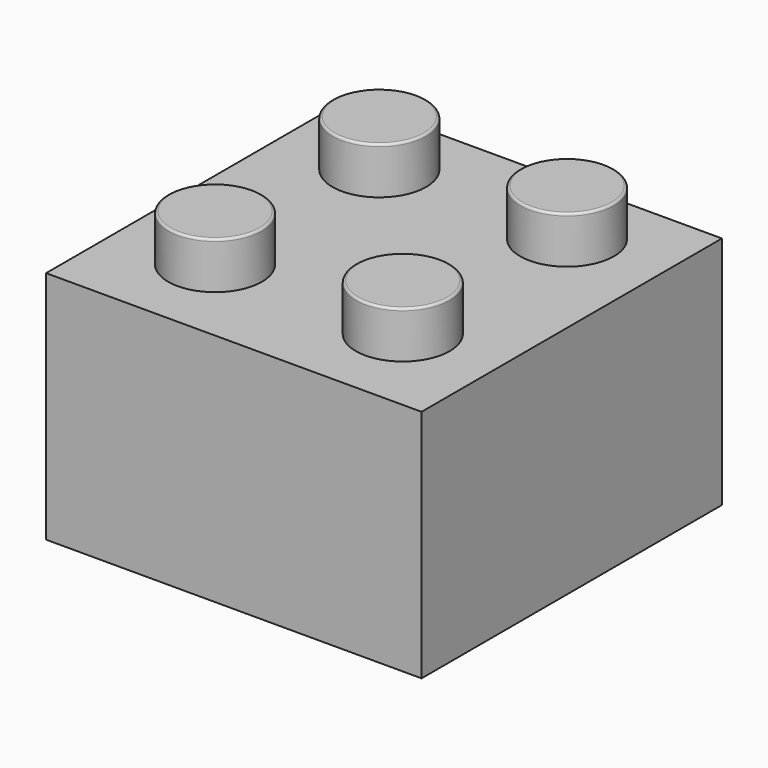
from build123d import *

# Parameters (mm, degrees)
F0_W      = 32
F0_H      = 32
F1_DEPTH  = 20
F2_R      = 4
F3_DEPTH  = 4
F4_R      = 4
F5_DEPTH  = 4
F7_R      = 4
F8_DEPTH  = 4
F10_R     = 4
F11_DEPTH = 4
F12_R     = 0.2
F13_R     = 0.2
F14_R     = 0.2
F15_R     = 0.2


with BuildPart() as f1:
    # F0 (on Top) → F1 (new body)
    with BuildSketch(Plane.XY):
        with Locations((20.307853, -9.500817)):
            Rectangle(F0_W, F0_H)
    extrude(amount=F1_DEPTH)

    # F2 (on face) → F3 (join)
    with BuildSketch(Plane.XY.offset(20)):
        with Locations((12.307853, 0)):
            Circle(F2_R)
    extrude(amount=F3_DEPTH)

    # F4 (on face) → F5 (join)
    with BuildSketch(Plane.XY.offset(20)):
        with Locations((28.307853, 0)):
            Circle(F4_R)
    extrude(amount=F5_DEPTH)

    # F7 (on face) → F8 (join)
    with BuildSketch(Plane.XY.offset(20)):
        with Locations((12.307853, -17.500817)):
            Circle(F7_R)
    extrude(amount=F8_DEPTH)

    # F10 (on face) → F11 (join)
    with BuildSketch(Plane.XY.offset(20)):
        with Locations((28.307853, -17.500817)):
            Circle(F10_R)
    extrude(amount=F11_DEPTH)

    # F12
    f12_edges = [f1.edges().sort_by_distance(p)[0] for p in [
        (8.307853, 0, 24),
    ]]
    fillet(f12_edges, radius=F12_R)

    # F13
    f13_edges = [f1.edges().sort_by_distance(p)[0] for p in [
        (8.307853, -17.500817, 24),
    ]]
    fillet(f13_edges, radius=F13_R)

    # F14
    f14_edges = [f1.edges().sort_by_distance(p)[0] for p in [
        (24.307853, -17.500817, 24),
    ]]
    fillet(f14_edges, radius=F14_R)

    # F15
    f15_edges = [f1.edges().sort_by_distance(p)[0] for p in [
        (24.307853, 0, 24),
    ]]
    fillet(f15_edges, radius=F15_R)


solid = f1.part
